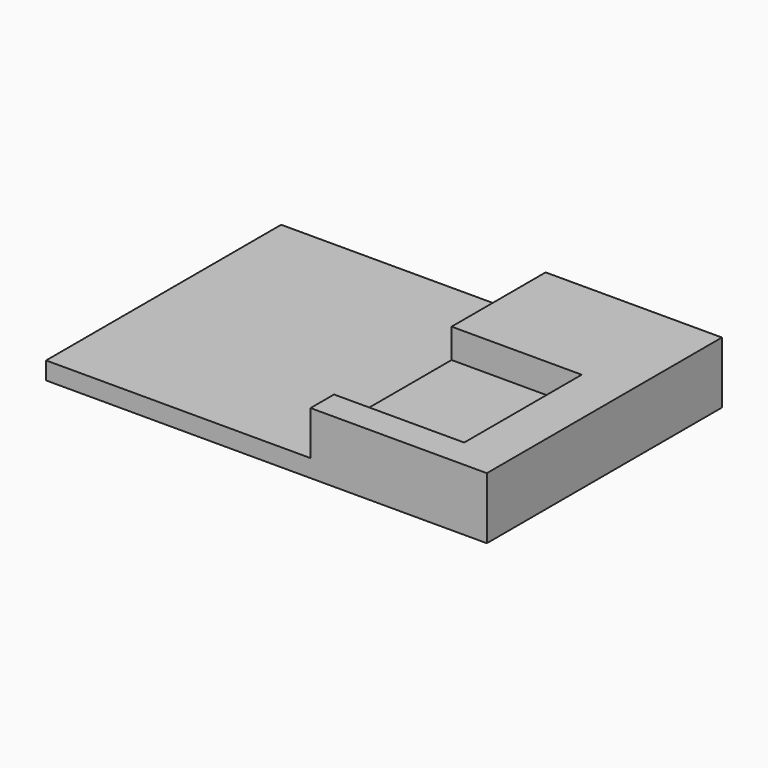
from build123d import *

# Parameters (mm, degrees)
PAD_DEPTH    = 20
SKETCH001_W  = 10.56442
SKETCH001_H  = 10
POCKET_DEPTH = 2


with BuildPart() as part:
    # Sketch → Pad (new body)
    with BuildSketch(Plane.XZ):
        Polygon((-21.220871, 0), (8.779129, 0), (8.779129, 4.2), (-3.220871, 4.2), (-3.220871, 1.2), (-21.220871, 1.2), align=None)
    extrude(amount=PAD_DEPTH)

    # Sketch001 (on Face3 of Pad) → Pocket (cut)
    with BuildSketch(Plane(origin=(0, 0, 4.2), x_dir=(-1, 0, 0), z_dir=(0, 0, 1))):
        with Locations((-0.355043, 13)):
            Rectangle(SKETCH001_W, SKETCH001_H)
    extrude(amount=-POCKET_DEPTH, mode=Mode.SUBTRACT)


solid = part.part
